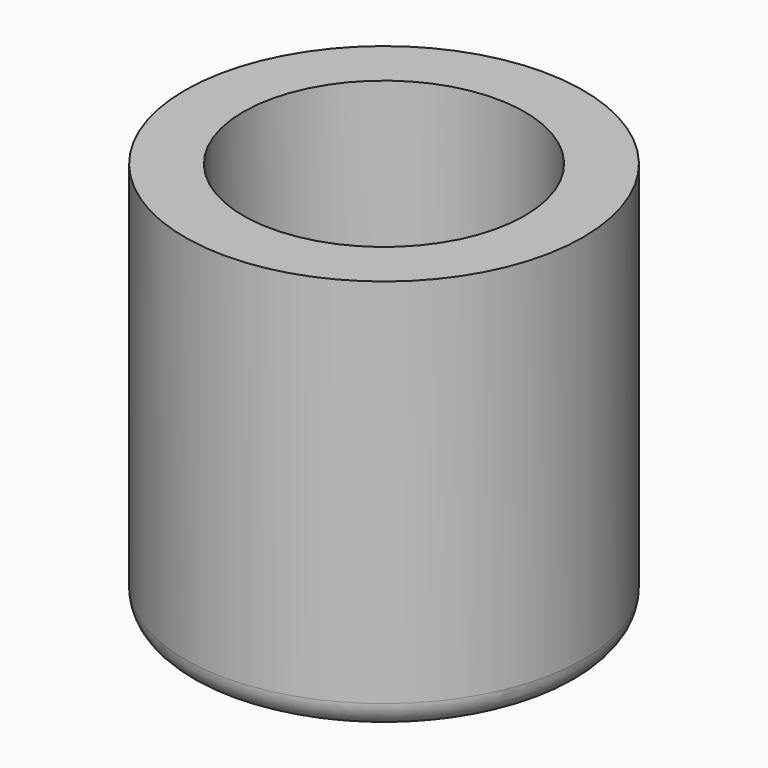
from build123d import *

# Parameters (mm, degrees)
F0_R     = 9.525
F1_DEPTH = 19.05
F2_R     = 6.731
F3_DEPTH = 12.7
F4_R     = 1.27


with BuildPart() as f1:
    # F0 (on Top) → F1 (new body)
    with BuildSketch(Plane.XY):
        Circle(F0_R)
    extrude(amount=F1_DEPTH)

    # F2 (on face) → F3 (cut)
    with BuildSketch(Plane.XY.offset(19.05)):
        Circle(F2_R)
    extrude(amount=-F3_DEPTH, mode=Mode.SUBTRACT)

    # F4
    f4_edges = [f1.edges().sort_by_distance(p)[0] for p in [
        (-9.525, 0, 0),
    ]]
    fillet(f4_edges, radius=F4_R)


solid = f1.part
